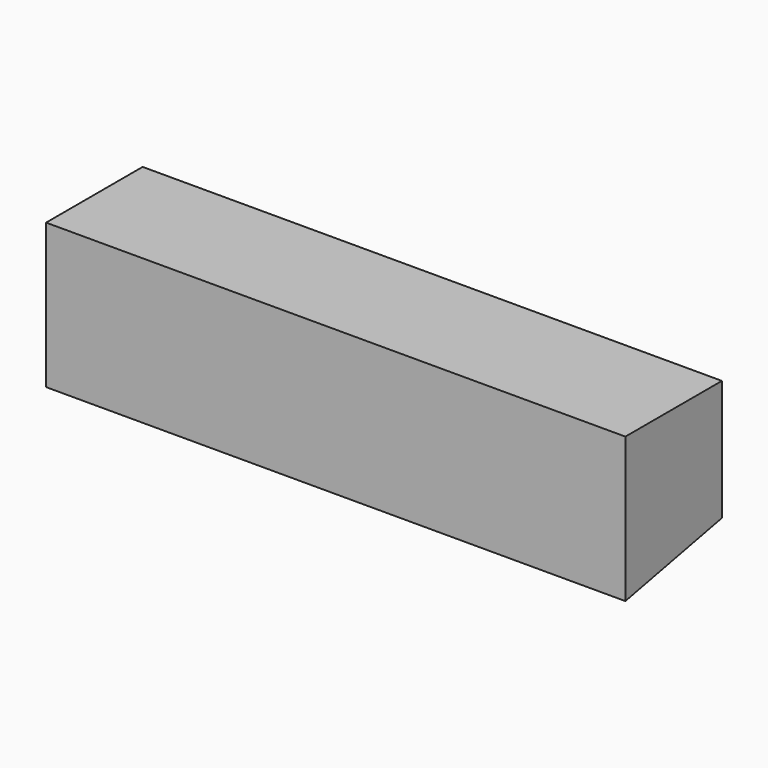
from build123d import *

# Parameters (mm, degrees)
F1_DEPTH = 60
F3_D     = 3
F3_DEPTH = 12
F3_TIP   = 0.9012909285


with BuildPart() as f1:
    # F0 (on Right) → F1 (new body, symmetric)
    with BuildSketch(Plane.YZ):
        Polygon((0, 30), (0, 0), (25, 5), (25, 30), align=None)
    extrude(amount=F1_DEPTH, both=True)

    # F3
    with Locations(Plane(origin=(0, 25, 0), x_dir=(-1, 0, 0), z_dir=(0, 1, 0))):
        with Locations((-40, 17), (40, 17)):
            Hole(F3_D / 2, depth=F3_DEPTH)
            with Locations((0, 0, -(F3_DEPTH + F3_TIP / 2))):  # 118° drill point
                Cone(0, F3_D / 2, F3_TIP, mode=Mode.SUBTRACT)


solid = f1.part
